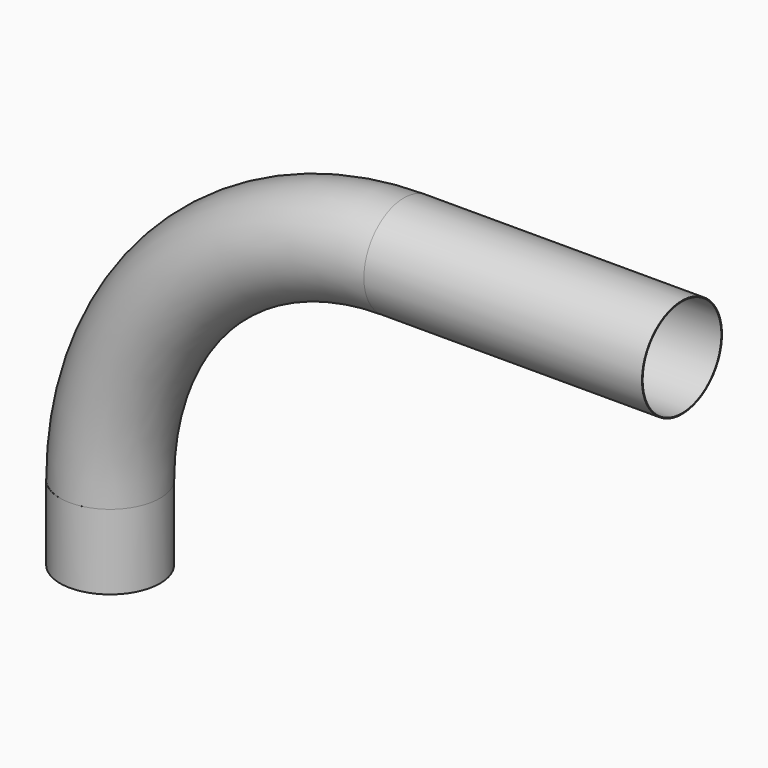
from build123d import *

# Parameters (mm, degrees)
F4_R      = 203.2
F4_R_2    = 200.025
F5_DEPTH  = 1130.3
F6_R      = 200.025
F7_ANGLE  = 90
F9_DEPTH  = 304.8
F6_R_2    = 203.2
F11_ANGLE = 90
F8_R      = 203.2
F8_R_2    = 200.025
F13_DEPTH = 304.8


with BuildPart() as f5:
    # F4 (on line) → F5 (new body)
    with BuildSketch(Plane(origin=(-88.9, 0, 0), x_dir=(0, -1, 0), z_dir=(-1, 0, 0))):
        Circle(F4_R)
        Circle(F4_R_2, mode=Mode.SUBTRACT)
    extrude(amount=F5_DEPTH)


with BuildPart() as f7:
    # F6 (on line) → F7 (revolve)
    with BuildSketch(Plane(origin=(-1219.2, 0, 0), x_dir=(0, -1, 0), z_dir=(-1, 0, 0))):
        Circle(F6_R)
    revolve(axis=Axis((-1219.2, -101.6, -1193.7998533249), (0, -1, 0)), revolution_arc=F7_ANGLE)


with BuildPart() as f9:
    # F9 (new): a face of the model
    f9_faces = [f7.part.faces().sort_by_distance(p)[0] for p in [
        (-2412.9998533249, 0, -1193.7998533249),
    ]]
    extrude(f9_faces, amount=F9_DEPTH)


with BuildPart() as f11:
    # F6 (on line) → F11 (revolve)
    with BuildSketch(Plane(origin=(-1219.2, 0, 0), x_dir=(0, -1, 0), z_dir=(-1, 0, 0))):
        Circle(F6_R_2)
        Circle(F6_R, mode=Mode.SUBTRACT)
    revolve(axis=Axis((-1219.2, -101.6, -1193.7998533249), (0, -1, 0)), revolution_arc=F11_ANGLE)


with BuildPart() as f13:
    # F8 (on line) → F13 (new body)
    with BuildSketch(Plane.XY.offset(-1193.8)):
        with Locations((-2413.3665561676, 0)):
            Circle(F8_R)
        with Locations((-2413.3665561676, 0)):
            Circle(F8_R_2, mode=Mode.SUBTRACT)
    extrude(amount=-F13_DEPTH)


solid = Compound([f5.part, f11.part, f13.part])
